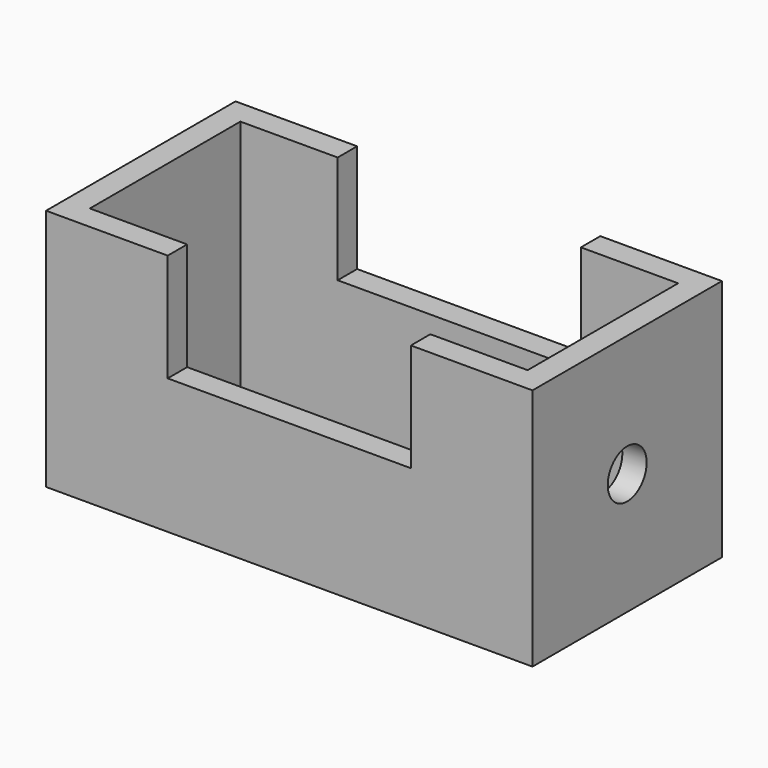
from build123d import *

# Parameters (mm, degrees)
F0_W     = 101.6
F0_H     = 49.463168
F0_W_2   = 91.44
F0_H_2   = 39.303168
F1_DEPTH = 50.8
F2_R     = 5.08
F3_DEPTH = 114.3
F4_W     = 50.8
F4_H     = 22.569782
F5_DEPTH = 63.5


with BuildPart() as f1:
    # F0 (on Top) → F1 (new body)
    with BuildSketch(Plane.XY):
        with Locations((5.092576, 1.704902)):
            Rectangle(F0_W, F0_H)
        with Locations((5.092576, 1.704902)):
            Rectangle(F0_W_2, F0_H_2, mode=Mode.SUBTRACT)
    extrude(amount=F1_DEPTH)

    # F2 (on face) → F3 (cut)
    with BuildSketch(Plane.YZ.offset(55.892576)):
        with Locations((1.704902, 25.4)):
            Circle(F2_R)
    extrude(amount=-F3_DEPTH, mode=Mode.SUBTRACT)

    # F4 (on face) → F5 (cut)
    with BuildSketch(Plane.XZ.offset(23.026682)):
        with Locations((5.092576, 39.515109)):
            Rectangle(F4_W, F4_H)
    extrude(amount=-F5_DEPTH, mode=Mode.SUBTRACT)


solid = f1.part
